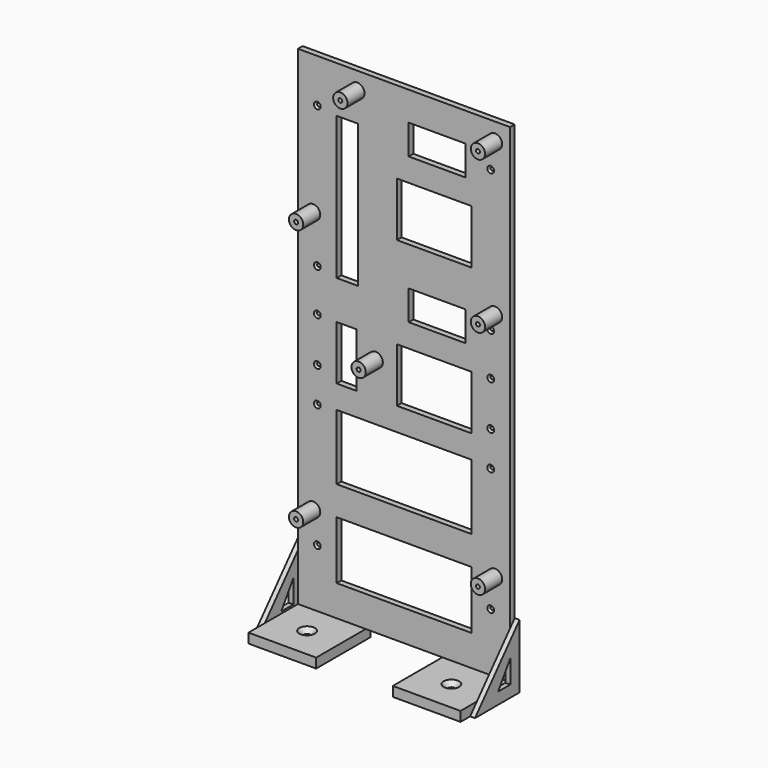
from build123d import *

# Parameters (mm, degrees)
SKETCH_R            = 1.4
SKETCH_W            = 29.4
SKETCH_H            = 15.4
SKETCH_W_2          = 38.5
SKETCH_H_2          = 28
SKETCH_W_3          = 11.1
SKETCH_H_3          = 73.8
SKETCH_W_4          = 10.132
SKETCH_W_5          = 69.6
SKETCH_H_4          = 33.8
SKETCH_H_5          = 30
PAD_DEPTH           = 3
SKETCH001_R         = 3.7
SKETCH001_R_2       = 1.025
PAD001_DEPTH        = 11
SKETCH002_W         = 35
SKETCH002_H         = 5
PAD002_DEPTH        = 32
PAD002_DEPTH_BACK   = 3
HOLE_D              = 3.4
HOLE_DEPTH          = 25
HOLE_CSINK_D        = 8
HOLE_CSINK_ANGLE    = 90
PAD003_DEPTH        = 2.5
HOLE002_D           = 1.71
HOLE002_DEPTH       = 25
HOLE002_CSINK_D     = 3.5
HOLE002_CSINK_ANGLE = 90


with BuildPart() as part:
    # Sketch → Pad (new body)
    with BuildSketch(Plane.XZ):
        Polygon((-54.8, 252.6), (-54.8, 16), (-54.8, 0), (54.8, 0), (54.8, 16), (54.8, 252.6), align=None)
        with Locations((-24.13, 243.52)):
            Circle(SKETCH_R, mode=Mode.SUBTRACT)
        with Locations((46.99, 243.52)):
            Circle(SKETCH_R, mode=Mode.SUBTRACT)
        with Locations((-46.99, 45.5)):
            Circle(SKETCH_R, mode=Mode.SUBTRACT)
        with Locations((46.99, 45.5)):
            Circle(SKETCH_R, mode=Mode.SUBTRACT)
        with Locations((-14.668, 124.14)):
            Circle(SKETCH_R, mode=Mode.SUBTRACT)
        with Locations((-46.99, 180.78)):
            Circle(SKETCH_R, mode=Mode.SUBTRACT)
        with Locations((46.99, 164.78)):
            Circle(SKETCH_R, mode=Mode.SUBTRACT)
        with Locations((17.1, 154.5)):
            Rectangle(SKETCH_W, SKETCH_H, mode=Mode.SUBTRACT)
        with Locations((15.55, 120.8)):
            Rectangle(SKETCH_W_2, SKETCH_H_2, mode=Mode.SUBTRACT)
        with Locations((17.1, 229.9)):
            Rectangle(SKETCH_W, SKETCH_H, mode=Mode.SUBTRACT)
        with Locations((15.55, 196.2)):
            Rectangle(SKETCH_W_2, SKETCH_H_2, mode=Mode.SUBTRACT)
        with Locations((-29.25, 191.7)):
            Rectangle(SKETCH_W_3, SKETCH_H_3, mode=Mode.SUBTRACT)
        with Locations((-29.734, 120.8)):
            Rectangle(SKETCH_W_4, SKETCH_H_2, mode=Mode.SUBTRACT)
        with Locations((0, 77.9)):
            Rectangle(SKETCH_W_5, SKETCH_H_4, mode=Mode.SUBTRACT)
        with Locations((0, 31)):
            Rectangle(SKETCH_W_5, SKETCH_H_5, mode=Mode.SUBTRACT)
    extrude(amount=-PAD_DEPTH)

    # Sketch001 → Pad001 (join)
    with BuildSketch(Plane.XZ):
        with Locations((-24.13, 243.52)):
            Circle(SKETCH001_R)
        with Locations((-24.13, 243.52)):
            Circle(SKETCH001_R_2, mode=Mode.SUBTRACT)
        with Locations((46.99, 243.52)):
            Circle(SKETCH001_R)
        with Locations((46.99, 243.52)):
            Circle(SKETCH001_R_2, mode=Mode.SUBTRACT)
        with Locations((-46.99, 180.78)):
            Circle(SKETCH001_R)
        with Locations((-46.99, 180.78)):
            Circle(SKETCH001_R_2, mode=Mode.SUBTRACT)
        with Locations((46.99, 164.78)):
            Circle(SKETCH001_R)
        with Locations((46.99, 164.78)):
            Circle(SKETCH001_R_2, mode=Mode.SUBTRACT)
        with Locations((-14.668, 124.14)):
            Circle(SKETCH001_R)
        with Locations((-14.668, 124.14)):
            Circle(SKETCH001_R_2, mode=Mode.SUBTRACT)
        with Locations((-46.99, 45.5)):
            Circle(SKETCH001_R)
        with Locations((-46.99, 45.5)):
            Circle(SKETCH001_R_2, mode=Mode.SUBTRACT)
        with Locations((46.99, 45.5)):
            Circle(SKETCH001_R)
        with Locations((46.99, 45.5)):
            Circle(SKETCH001_R_2, mode=Mode.SUBTRACT)
    extrude(amount=PAD001_DEPTH)

    # Sketch002 → Pad002 (join, two sides)
    with BuildSketch(Plane.XZ) as pad002_sk:
        with Locations((-37.3, -2.5)):
            Rectangle(SKETCH002_W, SKETCH002_H)
        with Locations((37.3, -2.5)):
            Rectangle(SKETCH002_W, SKETCH002_H)
    extrude(amount=PAD002_DEPTH)
    extrude(pad002_sk.sketch, amount=-PAD002_DEPTH_BACK)

    # Hole
    with Locations(Plane.XY):
        with Locations((-37.3, -16), (37.3, -16)):
            CounterSinkHole(HOLE_D / 2, HOLE_CSINK_D / 2, depth=HOLE_DEPTH, counter_sink_angle=HOLE_CSINK_ANGLE)

    # Sketch004 (on DatumPlane) → Pad003 (join)
    with BuildSketch(Plane.YZ.offset(54.8)):
        Polygon((-25.8, -5), (3, -5), (3, 28), align=None)
        Polygon((-10.8, 1), (-3, 13), (-3, 1), align=None, mode=Mode.SUBTRACT)
    pad003 = extrude(amount=PAD003_DEPTH)

    # Mirrored: Pad003 across YZ
    add(pad003.mirror(Plane.YZ))

    # Hole002
    with Locations(Plane.XZ):
        with Locations((44.8, 157), (-44.8, 135), (44.8, 135), (-44.8, 112), (-44.8, 94), (44.8, 112), (44.8, 94), (-44.8, 30), (44.8, 30), (-44.8, 157), (-44.8, 230), (44.8, 230)):
            CounterSinkHole(HOLE002_D / 2, HOLE002_CSINK_D / 2, depth=HOLE002_DEPTH, counter_sink_angle=HOLE002_CSINK_ANGLE)


with BuildPart() as part_1:
    # Body placement: moved
    add(part.part.moved(Location((0.2, -1, 0))))


solid = part_1.part
